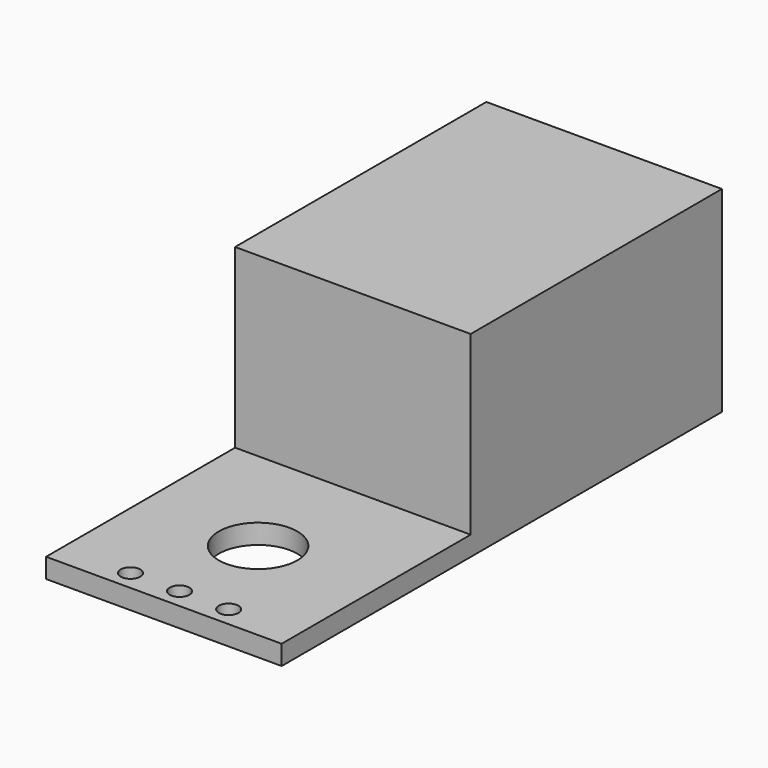
from build123d import *

# Parameters (mm, degrees)
SKETCH_W   = 12
SKETCH_H   = 28
SKETCH_R   = 0.5
SKETCH_R_2 = 2
PAD_DEPTH  = 1
BOX_W      = 12
BOX_H      = 16
BOX_DEPTH  = 10


with BuildPart() as pad:
    # Sketch → Pad (new body)
    with BuildSketch(Plane.XY):
        with Locations((0, 0.964269)):
            Rectangle(SKETCH_W, SKETCH_H)
        with Locations((0, -12.035731)):
            Circle(SKETCH_R, mode=Mode.SUBTRACT)
        with Locations((2.5, -12.035731)):
            Circle(SKETCH_R, mode=Mode.SUBTRACT)
        with Locations((-2.5, -12.035731)):
            Circle(SKETCH_R, mode=Mode.SUBTRACT)
        with Locations((0, -7.035731)):
            Circle(SKETCH_R_2, mode=Mode.SUBTRACT)
    extrude(amount=PAD_DEPTH)


with BuildPart() as fusion:
    # Box → Box (new body)
    with BuildSketch(Plane(origin=(-6, -1, 0), x_dir=(1, 0, 0), z_dir=(0, 0, 1))):
        with Locations((6, 8)):
            Rectangle(BOX_W, BOX_H)
    extrude(amount=BOX_DEPTH)

    # Fusion: union Pad
    add(pad.part)


solid = fusion.part
